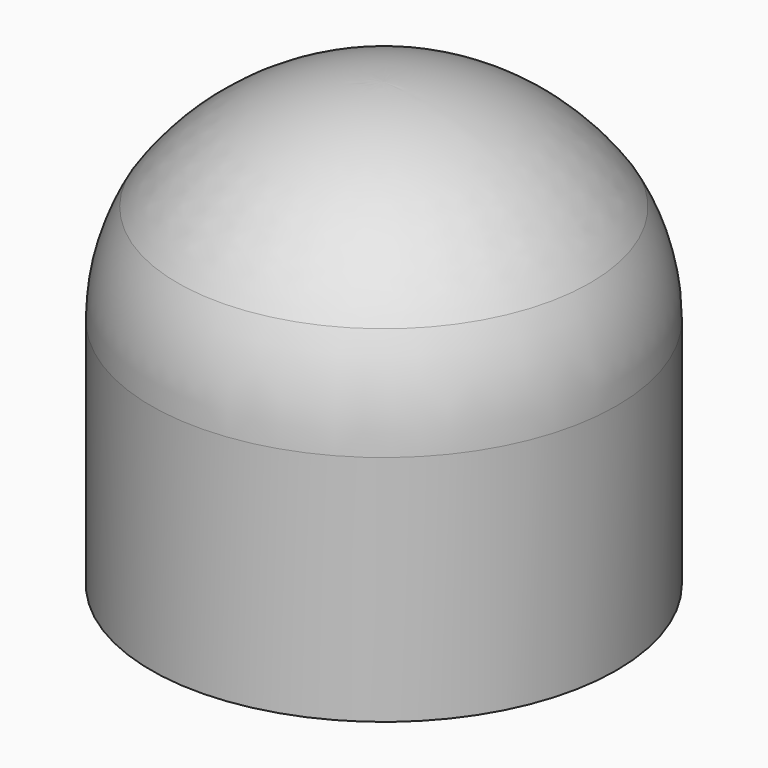
from build123d import *

# Parameters (mm, degrees)
F0_W = 50
F0_H = 50


with BuildPart() as f1:
    # F0 (on Front) → F1 (revolve)
    with BuildSketch(Plane.XZ):
        with Locations((25, 25)):
            Rectangle(F0_W, F0_H)
        with BuildLine():
            Line((0, 95), (0, 50))
            Line((0, 50), (50, 50))
            ThreePointArc((50, 50), (48.554109, 61.070013), (44.313449, 71.397286))
            ThreePointArc((44.313449, 71.397286), (25.103634, 88.731386), (0, 95))
        make_face()
    revolve(axis=Axis((0, 0, 25), (0, 0, 1)))


solid = f1.part
